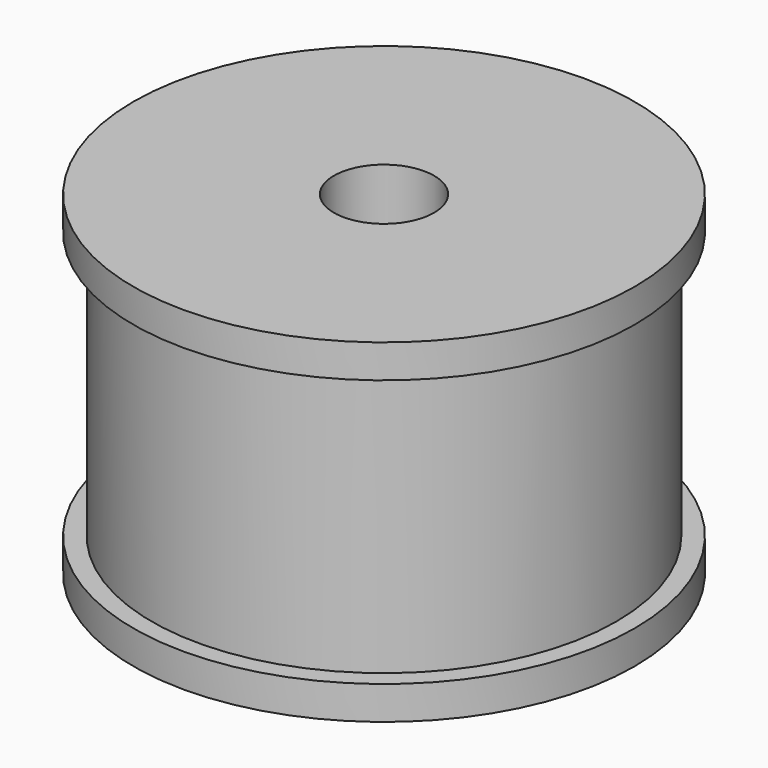
from build123d import *

# Parameters (mm, degrees)
F0_R     = 13.9
F1_DEPTH = 16
F2_R     = 15
F2_R_2   = 13.9
F3_DEPTH = 2
F4_R     = 15
F5_DEPTH = 2
F6_R     = 3
F7_DEPTH = 20.001


with BuildPart() as f1:
    # F0 (on Top) → F1 (new body)
    with BuildSketch(Plane.XY):
        Circle(F0_R)
    extrude(amount=F1_DEPTH)

    # F2 (on face) → F3 (join)
    with BuildSketch(Plane.XY.offset(16)):
        Circle(F2_R)
        Circle(F2_R_2, mode=Mode.SUBTRACT)
        Circle(F2_R_2)
    extrude(amount=F3_DEPTH)

    # F4 (on face) → F5 (join)
    with BuildSketch(Plane(origin=(0, 0, 0), x_dir=(1, 0, 0), z_dir=(0, 0, -1))):
        Circle(F4_R)
    extrude(amount=F5_DEPTH)

    # F6 (on face) → F7 (cut, through all)
    with BuildSketch(Plane.XY.offset(18)):
        Circle(F6_R)
    extrude(amount=-F7_DEPTH, mode=Mode.SUBTRACT)


solid = f1.part
